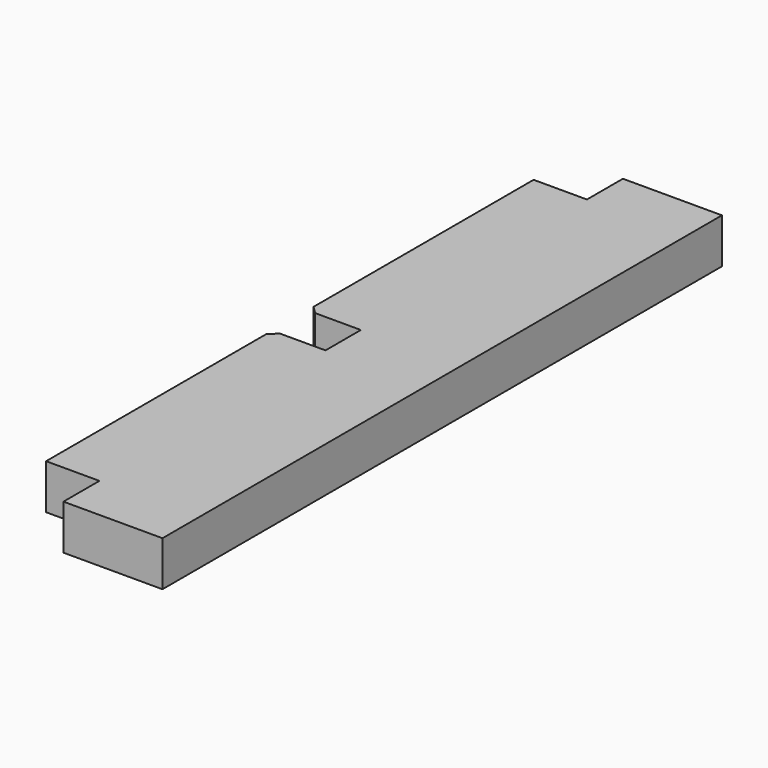
from build123d import *

# Parameters (mm, degrees)
F2_DEPTH = 5.9
F3_SIZE  = 1


with BuildPart() as f2:
    # F1 (on Top) → F2 (new body)
    with BuildSketch(Plane.XY):
        Polygon((4.6730719134, -54.0581345186), (11.6730719134, -54.0581345186), (11.6730719134, -59.9581345186), (24.6730719134, -59.9581345186), (24.6730719134, -54.0581345186), (24.6730719134, 25.9418654814), (24.6730719134, 31.8418654814), (11.6730719134, 31.8418654814), (11.6730719134, 25.9418654814), (4.6730719134, 25.9418654814), (4.6730719134, -11.1581345186), (11.6730719134, -11.1581345186), (11.6730719134, -16.9581345186), (4.6730719134, -16.9581345186), align=None)
    extrude(amount=F2_DEPTH)

    # F3
    f3_edges = [f2.edges().sort_by_distance(p)[0] for p in [
        (4.673072, -11.158135, 2.95),
        (4.673072, -16.958135, 2.95),
    ]]
    chamfer(f3_edges, length=F3_SIZE)


solid = f2.part
